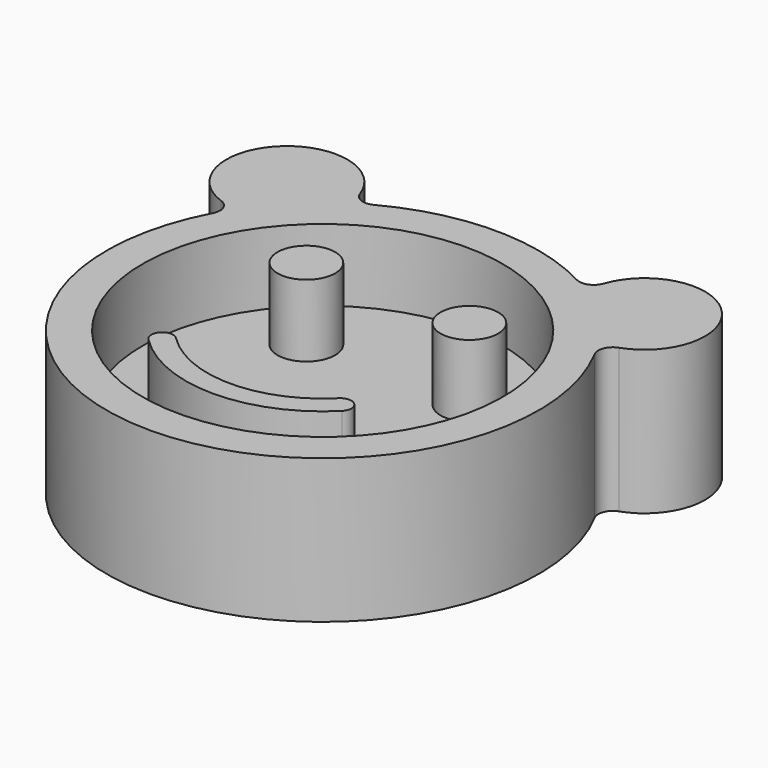
from build123d import *

# Parameters (mm, degrees)
F0_R     = 31.75
F2_DEPTH = 12.7
F3_R     = 5.08
F4_DEPTH = 12.7
F5_DEPTH = 25.4
F6_ANGLE = 45
F7_R     = 2.54


with BuildPart() as f2:
    # F0 (on Top) → F2 (new body)
    with BuildSketch(Plane.XY):
        with BuildLine():
            ThreePointArc((37.2940384615, -7.7951712765), (37.8979739919, -3.9183628351), (38.1, 0))
            ThreePointArc((38.1, 0), (37.8979739919, 3.9183628351), (37.2940384615, 7.7951712765))
            ThreePointArc((37.2940384615, 7.7951712765), (26.9407683632, 26.9407683632), (7.7951712765, 37.2940384615))
            ThreePointArc((7.7951712765, 37.2940384615), (0, 38.1), (-7.7951712765, 37.2940384615))
            ThreePointArc((-7.7951712765, 37.2940384615), (-26.9407683632, -26.9407683632), (37.2940384615, -7.7951712765))
        make_face()
        Circle(F0_R, mode=Mode.SUBTRACT)
        with BuildLine():
            ThreePointArc((37.2940384615, 7.7951712765), (37.8979739919, 3.9183628351), (38.1, 0))
            ThreePointArc((38.1, 0), (37.8979739919, -3.9183628351), (37.2940384615, -7.7951712765))
            ThreePointArc((37.2940384615, -7.7951712765), (55.245, 0), (37.2940384615, 7.7951712765))
        make_face()
        with BuildLine():
            ThreePointArc((-7.7951712765, 37.2940384615), (0, 38.1), (7.7951712765, 37.2940384615))
            ThreePointArc((7.7951712765, 37.2940384615), (0, 55.245), (-7.7951712765, 37.2940384615))
        make_face()
        Circle(F0_R)
    extrude(amount=F2_DEPTH)

    # F3 (on face) → F4 (join)
    with BuildSketch(Plane.XY.offset(12.7)):
        with Locations((0, 20.32)):
            Circle(F3_R)
        with Locations((20.32, 0)):
            Circle(F3_R)
        with BuildLine():
            ThreePointArc((0, -24.13), (1.905, -22.225), (0, -20.32))
            ThreePointArc((0, -20.32), (-14.3684097937, -14.3684097937), (-20.32, 0))
            ThreePointArc((-20.32, 0), (-22.225, 1.905), (-24.13, 0))
            ThreePointArc((-24.13, 0), (-17.06248663, -17.06248663), (0, -24.13))
        make_face()
    extrude(amount=F4_DEPTH)

    # F0 (on Top) → F5 (join)
    with BuildSketch(Plane.XY):
        with BuildLine():
            ThreePointArc((37.2940384615, -7.7951712765), (37.8979739919, -3.9183628351), (38.1, 0))
            ThreePointArc((38.1, 0), (37.8979739919, 3.9183628351), (37.2940384615, 7.7951712765))
            ThreePointArc((37.2940384615, 7.7951712765), (26.9407683632, 26.9407683632), (7.7951712765, 37.2940384615))
            ThreePointArc((7.7951712765, 37.2940384615), (0, 38.1), (-7.7951712765, 37.2940384615))
            ThreePointArc((-7.7951712765, 37.2940384615), (-26.9407683632, -26.9407683632), (37.2940384615, -7.7951712765))
        make_face()
        Circle(F0_R, mode=Mode.SUBTRACT)
        with BuildLine():
            ThreePointArc((-7.7951712765, 37.2940384615), (0, 38.1), (7.7951712765, 37.2940384615))
            ThreePointArc((7.7951712765, 37.2940384615), (0, 55.245), (-7.7951712765, 37.2940384615))
        make_face()
        with BuildLine():
            ThreePointArc((37.2940384615, 7.7951712765), (37.8979739919, 3.9183628351), (38.1, 0))
            ThreePointArc((38.1, 0), (37.8979739919, -3.9183628351), (37.2940384615, -7.7951712765))
            ThreePointArc((37.2940384615, -7.7951712765), (55.245, 0), (37.2940384615, 7.7951712765))
        make_face()
    extrude(amount=F5_DEPTH)


with BuildPart() as f2_1:
    # F6: moved
    add(f2.part.rotate(Axis((0, 0, 29.6926), (0, 0, 1)), F6_ANGLE))

    # F7
    f7_edges = [f2_1.edges().sort_by_distance(p)[0] for p in [
        (-20.858849, 31.882886, 12.7),
        (-31.882886, 20.858849, 12.7),
        (31.882886, 20.858849, 12.7),
        (20.858849, 31.882886, 12.7),
    ]]
    fillet(f7_edges, radius=F7_R)


solid = f2_1.part
